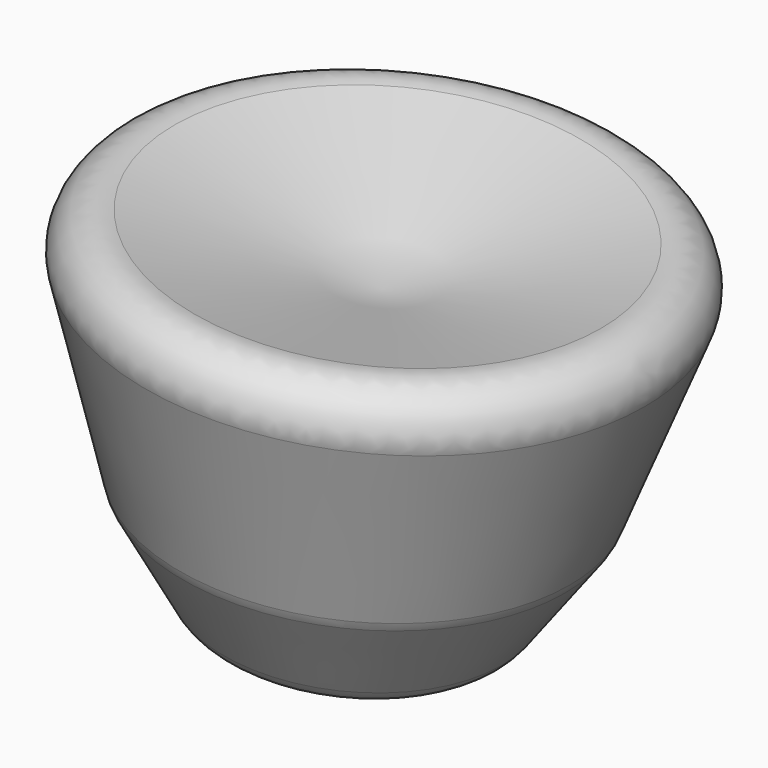
from build123d import *

# Parameters (mm, degrees)
F2_R = 5.08


with BuildPart() as f1:
    # F0 (on Front) → F1 (revolve)
    with BuildSketch(Plane.XZ):
        Polygon((23.340716958, 17.2953996807), (-13.42510432, 11.1656589434), (-17.0120093971, -26.6356188804), (0, -28.2498622709), (10.1139964536, -14.769744128), align=None)
    revolve(axis=Axis((-15.2185568586, 0, -7.7349799685), (-0.0944641449, 0, -0.9955282645)))

    # F2
    f2_edges = [f1.edges().sort_by_distance(p)[0] for p in [
        (-34.024019, 0, -25.021375),
        (-41.422124, 0, -9.879561),
        (5.056998, 0, -21.509803),
        (-48.381865, 0, 24.101045),
        (16.727357, 0, 1.262828),
    ]]
    fillet(f2_edges, radius=F2_R)


solid = f1.part
